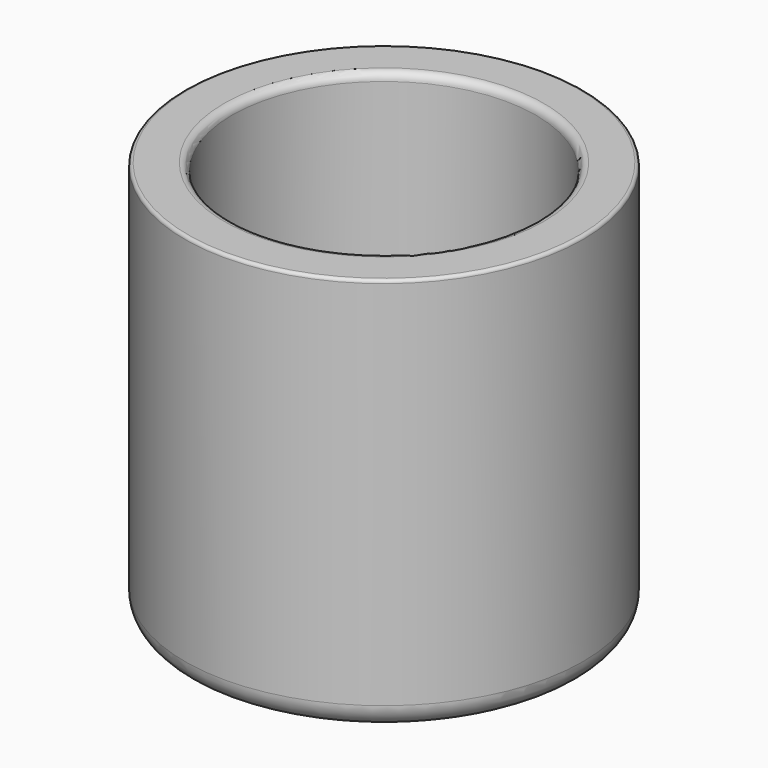
from build123d import *

# Parameters (mm, degrees)
F0_R     = 25.4
F0_R_2   = 19.4
F1_DEPTH = 50.8
F2_R     = 3
F3_R     = 0.4
F4_R     = 1


with BuildPart() as f1:
    # F0 (on Top) → F1 (new body)
    with BuildSketch(Plane.XY):
        Circle(F0_R)
        Circle(F0_R_2, mode=Mode.SUBTRACT)
    extrude(amount=F1_DEPTH)

    # F2
    f2_edges = [f1.edges().sort_by_distance(p)[0] for p in [
        (-25.4, 0, 0),
    ]]
    fillet(f2_edges, radius=F2_R)

    # F3
    f3_edges = [f1.edges().sort_by_distance(p)[0] for p in [
        (-25.4, 0, 50.8),
        (-19.4, 0, 0),
    ]]
    fillet(f3_edges, radius=F3_R)

    # F4
    f4_edges = [f1.edges().sort_by_distance(p)[0] for p in [
        (-19.4, 0, 50.8),
    ]]
    fillet(f4_edges, radius=F4_R)


solid = f1.part
